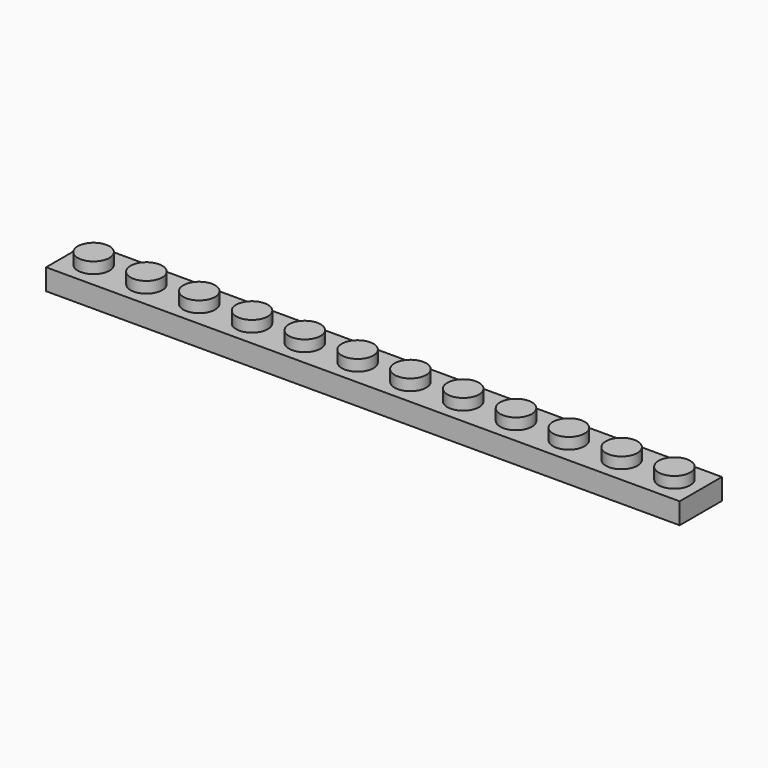
from build123d import *

# Parameters (mm, degrees)
F1_DEPTH  = 8
F3_W      = 8
F3_H      = 8
F3_R      = 2.4
F4_DEPTH  = 1.7
F5_R      = 2.4
F6_DEPTH  = 1.7
F14_W     = 31.3753262162
F14_H     = 26.4205296278
F15_DEPTH = 32.004


with BuildPart() as f1:
    # F0 (on Front) → F1 (new body)
    with BuildSketch(Plane.XZ):
        Polygon((-2.4, 3.2), (-4, 3.2), (-4, 0), (4, 0), (4, 3.2), (2.4, 3.2), (2.4, 4.9), (-2.4, 4.9), align=None)
    extrude(amount=F1_DEPTH)

    # F3 (on plane+point) → F4 (cut, through all)
    with BuildSketch(Plane.XY.offset(4.9)):
        with Locations((0, -4)):
            Rectangle(F3_W, F3_H)
        with Locations((0, -4)):
            Circle(F3_R, mode=Mode.SUBTRACT)
    extrude(amount=-F4_DEPTH, mode=Mode.SUBTRACT)

    # F5 (on Top) → F6 (cut)
    with BuildSketch(Plane.XY):
        with Locations((0, -4)):
            Circle(F5_R)
    extrude(amount=F6_DEPTH, mode=Mode.SUBTRACT)

    # F8: F1 across plane


with BuildPart() as f1_1:
    add(f1.part)
    add(f1.part.mirror(Plane.YZ.offset(4)))

    # F10: F1 across plane


with BuildPart() as f1_2:
    add(f1_1.part)
    add(f1_1.part.mirror(Plane.YZ.offset(12)))

    # F12: F1 across plane


with BuildPart() as f1_3:
    add(f1_2.part)
    add(f1_2.part.mirror(Plane.YZ.offset(28)))

    # F13: F1 across face


with BuildPart() as f1_4:
    add(f1_3.part)
    add(f1_3.part.mirror(Plane(origin=(60, -4, 1.6), x_dir=(0, 1, 0), z_dir=(1, 0, 0))))

    # F14 (on face) → F15 (cut)
    with BuildSketch(Plane.YZ.offset(124)):
        with Locations((0, 3.2)):
            Rectangle(F14_W, F14_H)
    extrude(amount=-F15_DEPTH, mode=Mode.SUBTRACT)


solid = f1_4.part
